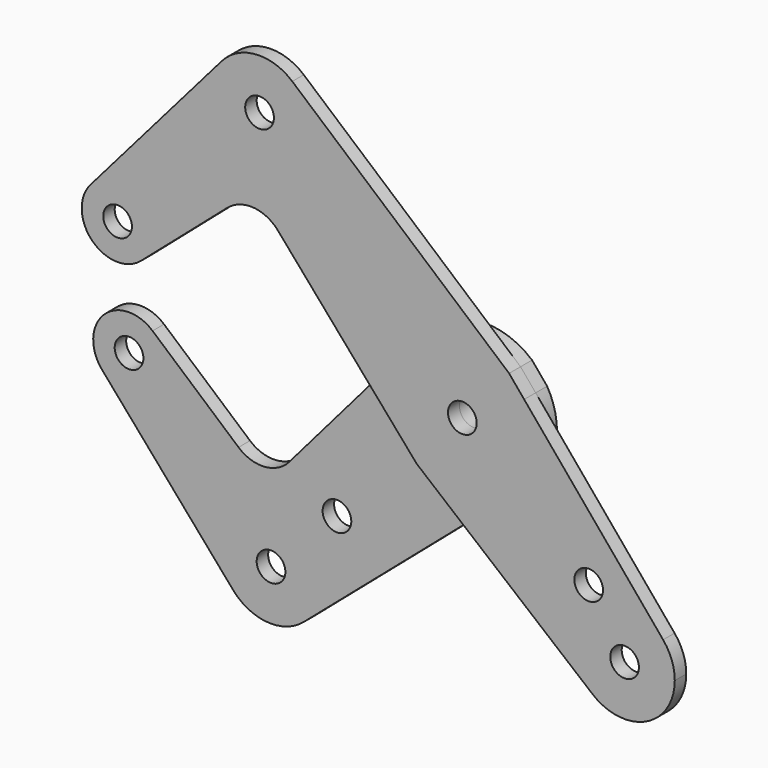
from build123d import *

# Parameters (mm, degrees)
F0_R     = 3.175
F0_R_2   = 3.9751
F1_DEPTH = 3.175
F2_DEPTH = 3.175


with BuildPart() as f1:
    # F0 (on Front) → F1 (new body)
    with BuildSketch(Plane.XZ):
        with BuildLine():
            ThreePointArc((-71.1347575644, 7.4711561347), (-69.1121208226, 10.1727039932), (-68.3946770291, 13.4703841816))
            ThreePointArc((-68.3946770291, 13.4703841816), (-73.5586383483, 20.9075469092), (-82.331405076, 18.6678036462))
            ThreePointArc((-82.331405076, 18.6678036462), (-81.9448371048, 7.8577241059), (-71.1347575644, 7.4711561347))
        make_face()
        with Locations((-76.3321770291, 13.4703841816)):
            Circle(F0_R, mode=Mode.SUBTRACT)
        with BuildLine():
            ThreePointArc((-82.331405076, 18.6678036462), (-73.5586383483, 20.9075469092), (-68.3946770291, 13.4703841816))
            ThreePointArc((-68.3946770291, 13.4703841816), (-69.1121208226, 10.1727039932), (-71.1347575644, 7.4711561347))
            Line((-71.1347575644, 7.4711561347), (-52.0348661511, 24.0183096399))
            ThreePointArc((-52.0348661511, 24.0183096399), (-46.2606466528, 25.9393318681), (-40.8194995905, 23.2142895086))
            Line((-40.8194995905, 23.2142895086), (-20.8270403475, 0.1303759834))
            Line((-20.8270403475, 0.1303759834), (-12.0356034841, 10.3518053389))
            ThreePointArc((-12.0356034841, 10.3518053389), (-1.1906250433, 15.8302885952), (10.3518054047, 12.0356034274))
            Line((10.3518054047, 12.0356034274), (-37.655016822, 53.3262030046))
            ThreePointArc((-37.655016822, 53.3262030046), (-34.8014845049, 49.5361241819), (-33.7887806053, 44.9012806053))
            ThreePointArc((-33.7887806053, 44.9012806053), (-48.7842347585, 34.4892527868), (-53.300199871, 52.1776678558))
            Line((-53.300199871, 52.1776678558), (-82.331405076, 18.6678036462))
        make_face()
        with BuildLine():
            ThreePointArc((-37.655016822, 53.3262030046), (-45.7148756595, 55.9839571475), (-53.300199871, 52.1776678558))
            ThreePointArc((-53.300199871, 52.1776678558), (-48.7842347585, 34.4892527868), (-33.7887806053, 44.9012806053))
            ThreePointArc((-33.7887806053, 44.9012806053), (-34.8014845049, 49.5361241819), (-37.655016822, 53.3262030046))
        make_face()
        with Locations((-44.9012806053, 44.9012806053)):
            Circle(F0_R, mode=Mode.SUBTRACT)
        with BuildLine():
            Line((13.6886557503, 8.0396721793), (10.3518054047, 12.0356034274))
            ThreePointArc((10.3518054047, 12.0356034274), (-1.1906250433, 15.8302885952), (-12.0356034841, 10.3518053389))
            ThreePointArc((-12.0356034841, 10.3518053389), (-15.8228828455, 1.2853028661), (-13.5485560441, -8.2735877417))
            Line((-13.5485560441, -8.2735877417), (-10.1235074968, -12.2282550252))
            ThreePointArc((-10.1235074968, -12.2282550252), (0.1493609379, -15.8742973486), (10.3518056411, -12.0356032241))
            ThreePointArc((10.3518056411, -12.0356032241), (14.4282802085, -6.6212049677), (15.875, 0))
            ThreePointArc((15.875, 0), (15.3186656572, 4.1658261464), (13.6886557503, 8.0396721793))
        make_face()
        Circle(F0_R_2, mode=Mode.SUBTRACT)
        with BuildLine():
            Line((44.4506274521, -28.7982771588), (13.6886557503, 8.0396721793))
            ThreePointArc((13.6886557503, 8.0396721793), (15.3186656572, 4.1658261464), (15.875, 0))
            ThreePointArc((15.875, 0), (14.4282802085, -6.6212049677), (10.3518056411, -12.0356032241))
            Line((10.3518056411, -12.0356032241), (0.1954344954, -20.7710836138))
            Line((0.1954344954, -20.7710836138), (28.8345692365, -44.4808030019))
            ThreePointArc((28.8345692365, -44.4808030019), (28.0466309813, -28.0800052132), (44.4506274521, -28.7982771588))
        make_face()
        with Locations((27.9745180668, -23.4843900063)):
            Circle(F0_R, mode=Mode.SUBTRACT)
        with BuildLine():
            ThreePointArc((47.0335244843, -35.9210244843), (46.3678629828, -32.132723858), (44.4506274521, -28.7982771588))
            ThreePointArc((44.4506274521, -28.7982771588), (28.0466309813, -28.0800052132), (28.8345692365, -44.4808030019))
            ThreePointArc((28.8345692365, -44.4808030019), (40.650687385, -45.9767663811), (47.0335244843, -35.9210244843))
        make_face()
        with Locations((35.9210244843, -35.9210244843)):
            Circle(F0_R, mode=Mode.SUBTRACT)
        Circle(F0_R_2)
        Circle(F0_R, mode=Mode.SUBTRACT)
        with BuildLine():
            Line((-12.0356034841, 10.3518053389), (-20.8270403475, 0.1303759834))
            Line((-20.8270403475, 0.1303759834), (-13.5485560441, -8.2735877417))
            ThreePointArc((-13.5485560441, -8.2735877417), (-15.8228828455, 1.2853028661), (-12.0356034841, 10.3518053389))
        make_face()
        with BuildLine():
            ThreePointArc((10.3518056411, -12.0356032241), (0.1493609379, -15.8742973486), (-10.1235074968, -12.2282550252))
            Line((-10.1235074968, -12.2282550252), (0.1954344954, -20.7710836138))
            Line((0.1954344954, -20.7710836138), (10.3518056411, -12.0356032241))
        make_face()
    extrude(amount=F1_DEPTH)


with BuildPart() as f2:
    # F0 (on Front) → F2 (new body)
    with BuildSketch(Plane.XZ):
        with BuildLine():
            ThreePointArc((-68.3946770291, -13.4703841816), (-69.1121208226, -10.1727039932), (-71.1347575644, -7.4711561347))
            ThreePointArc((-71.1347575644, -7.4711561347), (-81.9448371048, -7.8577241059), (-82.331405076, -18.6678036462))
            ThreePointArc((-82.331405076, -18.6678036462), (-73.5586383483, -20.9075469092), (-68.3946770291, -13.4703841816))
        make_face()
        with Locations((-76.3321770291, -13.4703841816)):
            Circle(F0_R, mode=Mode.SUBTRACT)
        with BuildLine():
            Line((-13.5485560441, -8.2735877417), (-20.8270403475, 0.1303759834))
            Line((-20.8270403475, 0.1303759834), (-40.8511612346, -23.1508168672))
            ThreePointArc((-40.8511612346, -23.1508168672), (-46.2965222838, -25.8954961667), (-52.0843267669, -23.9754595323))
            Line((-52.0843267669, -23.9754595323), (-71.1347575644, -7.4711561347))
            ThreePointArc((-71.1347575644, -7.4711561347), (-69.1121208226, -10.1727039932), (-68.3946770291, -13.4703841816))
            ThreePointArc((-68.3946770291, -13.4703841816), (-73.5586383483, -20.9075469092), (-82.331405076, -18.6678036462))
            Line((-82.331405076, -18.6678036462), (-53.300199871, -52.1776678558))
            ThreePointArc((-53.300199871, -52.1776678558), (-48.7842347585, -34.4892527868), (-33.7887806053, -44.9012806053))
            ThreePointArc((-33.7887806053, -44.9012806053), (-34.8014845049, -49.5361241819), (-37.655016822, -53.3262030046))
            Line((-37.655016822, -53.3262030046), (0.1954344954, -20.7710836138))
            Line((0.1954344954, -20.7710836138), (-10.1235074968, -12.2282550252))
            ThreePointArc((-10.1235074968, -12.2282550252), (-12.0000623499, -10.3929845857), (-13.5485560441, -8.2735877417))
        make_face()
        with Locations((-30.2993841525, -30.2993841525)):
            Circle(F0_R, mode=Mode.SUBTRACT)
        with BuildLine():
            ThreePointArc((-53.300199871, -52.1776678558), (-45.7148756595, -55.9839571475), (-37.655016822, -53.3262030046))
            ThreePointArc((-37.655016822, -53.3262030046), (-34.8014845049, -49.5361241819), (-33.7887806053, -44.9012806053))
            ThreePointArc((-33.7887806053, -44.9012806053), (-48.7842347585, -34.4892527868), (-53.300199871, -52.1776678558))
        make_face()
        with Locations((-44.9012806053, -44.9012806053)):
            Circle(F0_R, mode=Mode.SUBTRACT)
        with BuildLine():
            Line((-12.0356034841, 10.3518053389), (-20.8270403475, 0.1303759834))
            Line((-20.8270403475, 0.1303759834), (-13.5485560441, -8.2735877417))
            ThreePointArc((-13.5485560441, -8.2735877417), (-15.8228828455, 1.2853028661), (-12.0356034841, 10.3518053389))
        make_face()
        with BuildLine():
            ThreePointArc((10.3518056411, -12.0356032241), (0.1493609379, -15.8742973486), (-10.1235074968, -12.2282550252))
            Line((-10.1235074968, -12.2282550252), (0.1954344954, -20.7710836138))
            Line((0.1954344954, -20.7710836138), (10.3518056411, -12.0356032241))
        make_face()
        with BuildLine():
            Line((13.6886557503, 8.0396721793), (10.3518054047, 12.0356034274))
            ThreePointArc((10.3518054047, 12.0356034274), (-1.1906250433, 15.8302885952), (-12.0356034841, 10.3518053389))
            ThreePointArc((-12.0356034841, 10.3518053389), (-15.8228828455, 1.2853028661), (-13.5485560441, -8.2735877417))
            Line((-13.5485560441, -8.2735877417), (-10.1235074968, -12.2282550252))
            ThreePointArc((-10.1235074968, -12.2282550252), (0.1493609379, -15.8742973486), (10.3518056411, -12.0356032241))
            ThreePointArc((10.3518056411, -12.0356032241), (14.4282802085, -6.6212049677), (15.875, 0))
            ThreePointArc((15.875, 0), (15.3186656572, 4.1658261464), (13.6886557503, 8.0396721793))
        make_face()
        Circle(F0_R_2, mode=Mode.SUBTRACT)
        Circle(F0_R_2)
        Circle(F0_R, mode=Mode.SUBTRACT)
    extrude(amount=-F2_DEPTH)


solid = Compound([f1.part, f2.part])
